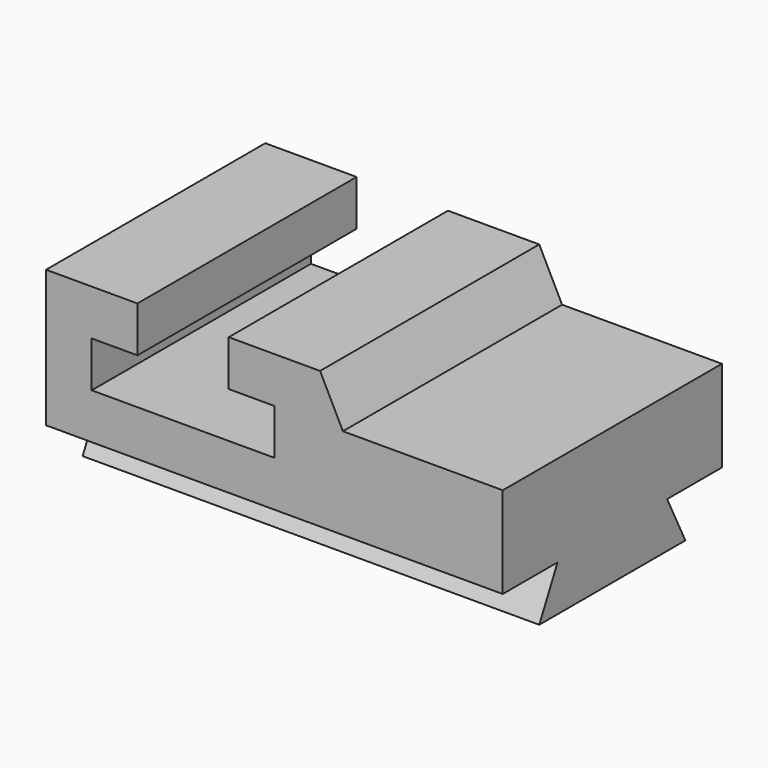
from build123d import *

# Parameters (mm, degrees)
F0_W     = 127
F0_H     = 50.8
F1_DEPTH = 76.2
F2_W     = 25.4
F2_H     = 12.7
F3_DEPTH = 76.2
F5_DEPTH = 76.2
F7_DEPTH = 127


with BuildPart() as f1:
    # F0 (on Front) → F1 (new body)
    with BuildSketch(Plane.XZ):
        with Locations((63.5, 25.4)):
            Rectangle(F0_W, F0_H)
    extrude(amount=F1_DEPTH)

    # F2 (on face) → F3 (cut)
    with BuildSketch(Plane.XZ.offset(76.2)):
        Polygon((12.7, 38.1), (12.7, 25.4), (63.5, 25.4), (63.5, 38.1), (50.8, 38.1), (25.4, 38.1), align=None)
        with Locations((38.1, 44.45)):
            Rectangle(F2_W, F2_H)
    extrude(amount=-F3_DEPTH, mode=Mode.SUBTRACT)

    # F4 (on face) → F5 (cut)
    with BuildSketch(Plane.XZ.offset(76.2)):
        Polygon((127, 50.8), (76.2, 50.8), (82.55, 38.1), (127, 38.1), align=None)
    extrude(amount=-F5_DEPTH, mode=Mode.SUBTRACT)

    # F6 (on face) → F7 (cut)
    with BuildSketch(Plane.YZ.offset(127)):
        Polygon((-57.15, 12.7), (-76.2, 12.7), (-76.2, 0), (-63.5, 0), align=None)
        Polygon((0, 0), (0, 12.7), (-19.05, 12.7), (-12.7, 0), align=None)
    extrude(amount=-F7_DEPTH, mode=Mode.SUBTRACT)


solid = f1.part
